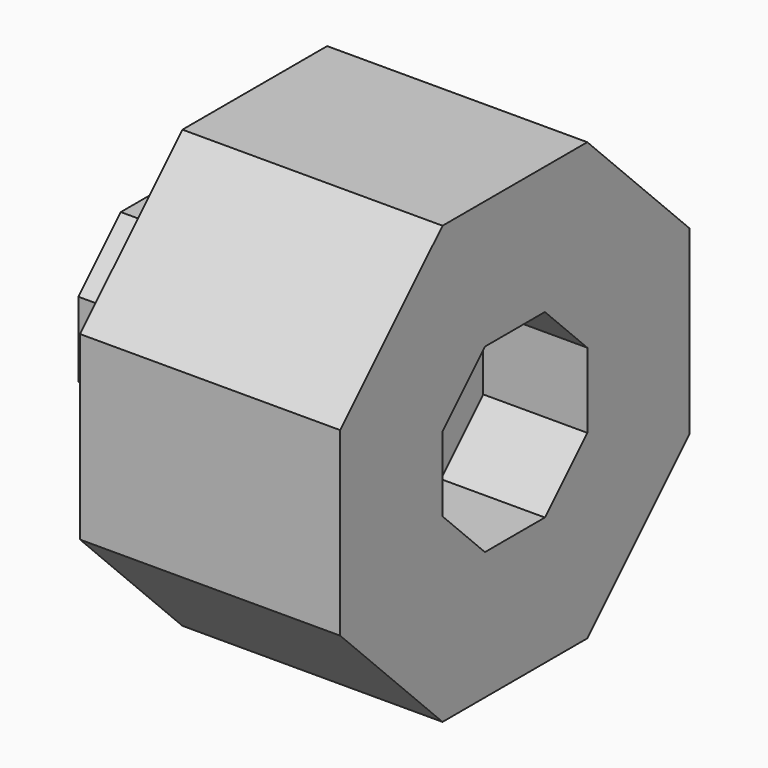
from build123d import *

# Parameters (mm, degrees)
F1_DEPTH = 25
F3_DEPTH = 10
F5_DEPTH = 10


with BuildPart() as f1:
    # F0 (on Right) → F1 (new body)
    with BuildSketch(Plane.YZ):
        Polygon((8.695065, -20.991743), (20.991743, -8.695065), (20.991743, 8.695065), (8.695065, 20.991743), (-8.695065, 20.991743), (-20.991743, 8.695065), (-20.991743, -8.695065), (-8.695065, -20.991743), align=None)
    extrude(amount=F1_DEPTH)

    # F2 (on face) → F3 (join)
    with BuildSketch(Plane(origin=(0, 0, 0), x_dir=(0, -1, 0), z_dir=(-1, 0, 0))):
        Polygon((-3.601614, 8.695065), (-8.695065, 3.601614), (-8.695065, -3.601614), (-3.601614, -8.695065), (3.601614, -8.695065), (8.695065, -3.601614), (8.695065, 3.601614), (3.601614, 8.695065), align=None)
    extrude(amount=F3_DEPTH)

    # F4 (on face) → F5 (cut)
    with BuildSketch(Plane.YZ.offset(25)):
        Polygon((-3.601614, 8.695065), (-8.695065, 3.601614), (-8.695065, -3.601614), (-3.601614, -8.695065), (3.601614, -8.695065), (8.695065, -3.601614), (8.695065, 3.601614), (3.601614, 8.695065), align=None)
    extrude(amount=-F5_DEPTH, mode=Mode.SUBTRACT)


solid = f1.part
